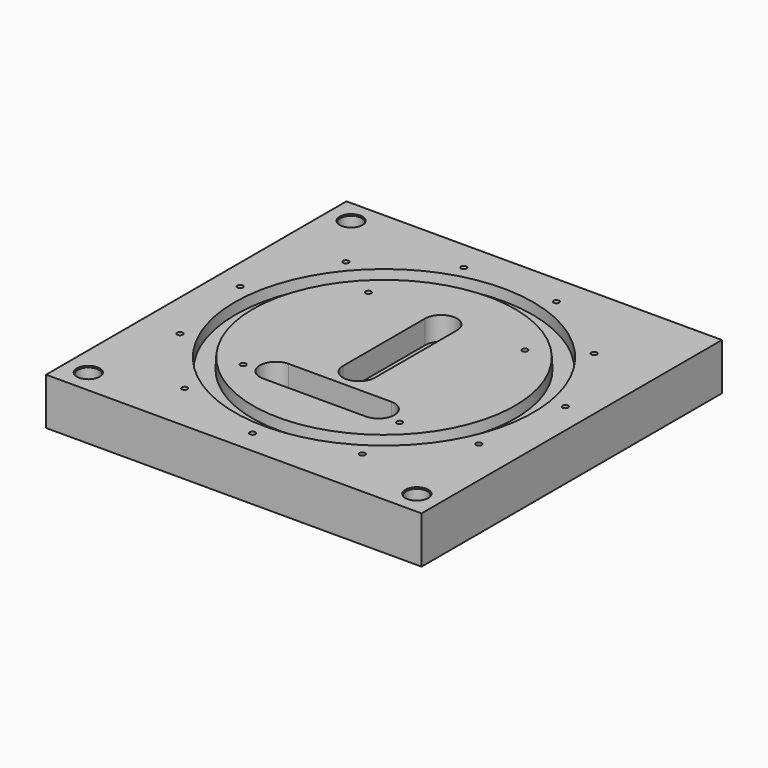
from build123d import *

# Parameters (mm, degrees)
F0_W      = 152.4
F0_H      = 152.4
F1_DEPTH  = 19.05
F2_R      = 4.3815
F3_DEPTH  = 19.05
F4_R      = 4.6355
F5_DEPTH  = 0.508
F6_R      = 1.1303
F8_DEPTH  = 6.35
F9_DEPTH  = 9.525
F10_R     = 1.1303
F11_DEPTH = 19.05
F12_R     = 4.7625
F13_DEPTH = 3.175
F14_R     = 1.1303
F15_DEPTH = 9.525


with BuildPart() as f1:
    # F0 (on Top) → F1 (new body)
    with BuildSketch(Plane.XY):
        Rectangle(F0_W, F0_H)
    extrude(amount=F1_DEPTH)

    # F2 (on face) → F3 (cut, through all)
    with BuildSketch(Plane.XY.offset(19.05)):
        with Locations((-66.675, 66.675)):
            Circle(F2_R)
        with Locations((-66.675, -66.675)):
            Circle(F2_R)
        with Locations((66.675, -66.675)):
            Circle(F2_R)
    extrude(amount=-F3_DEPTH, mode=Mode.SUBTRACT)

    # F4 (on face) → F5 (cut)
    with BuildSketch(Plane.XY.offset(19.05)):
        with Locations((-66.675, 66.675)):
            Circle(F4_R)
        with Locations((-66.675, -66.675)):
            Circle(F4_R)
        with Locations((66.675, -66.675)):
            Circle(F4_R)
    extrude(amount=-F5_DEPTH, mode=Mode.SUBTRACT)

    # F6 (on face) → F8 (cut)
    with BuildSketch(Plane.XY.offset(19.05)):
        with Locations((-31.75, 31.75)):
            Circle(F6_R)
        with Locations((31.75, 31.75)):
            Circle(F6_R)
        with Locations((31.75, -31.75)):
            Circle(F6_R)
        with Locations((-31.75, -31.75)):
            Circle(F6_R)
    extrude(amount=-F8_DEPTH, mode=Mode.SUBTRACT)

    # F7 (on face) → F9 (cut)
    with BuildSketch(Plane.XY.offset(19.05)):
        with BuildLine():
            ThreePointArc((20.828, -35.306), (14.351, -28.829), (20.828, -22.352))
            Line((20.828, -22.352), (-20.828, -22.352))
            ThreePointArc((-20.828, -22.352), (-16.2480693783, -24.2490693783), (-14.351, -28.829))
            ThreePointArc((-14.351, -28.829), (-16.2480693783, -33.4089306217), (-20.828, -35.306))
            Line((-20.828, -35.306), (20.828, -35.306))
        make_face()
        with BuildLine():
            ThreePointArc((27.305, -28.829), (25.4079306217, -24.2490693783), (20.828, -22.352))
            Line((20.828, -22.352), (20.828, -35.306))
            ThreePointArc((20.828, -35.306), (25.4079306217, -33.4089306217), (27.305, -28.829))
        make_face()
        with BuildLine():
            Line((20.828, -35.306), (20.828, -22.352))
            ThreePointArc((20.828, -22.352), (14.351, -28.829), (20.828, -35.306))
        make_face()
        with BuildLine():
            ThreePointArc((-14.351, -28.829), (-16.2480693783, -24.2490693783), (-20.828, -22.352))
            Line((-20.828, -22.352), (-20.828, -35.306))
            ThreePointArc((-20.828, -35.306), (-16.2480693783, -33.4089306217), (-14.351, -28.829))
        make_face()
        with BuildLine():
            Line((-20.828, -35.306), (-20.828, -22.352))
            ThreePointArc((-20.828, -22.352), (-27.305, -28.829), (-20.828, -35.306))
        make_face()
        with BuildLine():
            ThreePointArc((-6.477, -12.7), (0, -19.177), (6.477, -12.7))
            Line((6.477, -12.7), (-6.477, -12.7))
        make_face()
        with BuildLine():
            ThreePointArc((-6.477, -12.7), (0, -6.223), (6.477, -12.7))
            Line((6.477, -12.7), (6.477, 28.956))
            ThreePointArc((6.477, 28.956), (0, 22.479), (-6.477, 28.956))
            Line((-6.477, 28.956), (-6.477, -12.7))
        make_face()
        with BuildLine():
            Line((-6.477, -12.7), (6.477, -12.7))
            ThreePointArc((6.477, -12.7), (0, -6.223), (-6.477, -12.7))
        make_face()
        with BuildLine():
            ThreePointArc((-6.477, 28.956), (0, 22.479), (6.477, 28.956))
            Line((6.477, 28.956), (-6.477, 28.956))
        make_face()
        with BuildLine():
            Line((-6.477, 28.956), (6.477, 28.956))
            ThreePointArc((6.477, 28.956), (0, 35.433), (-6.477, 28.956))
        make_face()
    extrude(amount=-F9_DEPTH, mode=Mode.SUBTRACT)

    # F10 (on face) → F11 (cut, through all)
    with BuildSketch(Plane.XY.offset(19.05)):
        with Locations((0, -4.572)):
            Circle(F10_R)
        with Locations((0, 20.828)):
            Circle(F10_R)
        with Locations((-12.7, -28.829)):
            Circle(F10_R)
        with Locations((12.7, -28.829)):
            Circle(F10_R)
    extrude(amount=-F11_DEPTH, mode=Mode.SUBTRACT)

    # F12 (on face) → F13 (cut)
    with BuildSketch(Plane(origin=(0, 0, 0), x_dir=(1, 0, 0), z_dir=(0, 0, -1))):
        with Locations((-12.7, 28.829)):
            Circle(F12_R)
        with Locations((12.7, 28.829)):
            Circle(F12_R)
        with Locations((0, 4.572)):
            Circle(F12_R)
        with Locations((0, -20.828)):
            Circle(F12_R)
    extrude(amount=-F13_DEPTH, mode=Mode.SUBTRACT)

    # F14 (on face) → F15 (cut)
    with BuildSketch(Plane.XY.offset(19.05)):
        with Locations((0, -66.675)):
            Circle(F14_R)
        with Locations((36.0472265039, -56.0905793015)):
            Circle(F14_R)
        with Locations((60.6497132903, -27.6977959919)):
            Circle(F14_R)
        with Locations((65.9963446374, 9.4888418419)):
            Circle(F14_R)
        with Locations((50.3896028701, 43.6628394358)):
            Circle(F14_R)
        with Locations((18.7845182274, 63.9741940157)):
            Circle(F14_R)
        with Locations((-18.7845182274, 63.9741940157)):
            Circle(F14_R)
        with Locations((-50.3896028701, 43.6628394358)):
            Circle(F14_R)
        with Locations((-65.9963446374, 9.4888418419)):
            Circle(F14_R)
        with Locations((-60.6497132903, -27.6977959919)):
            Circle(F14_R)
        with Locations((-36.0472265039, -56.0905793015)):
            Circle(F14_R)
    extrude(amount=-F15_DEPTH, mode=Mode.SUBTRACT)

    # F17 (on Front) → F18 (revolve, cut)
    with BuildSketch(Plane.XZ):
        Polygon((-53.1876, 19.05), (-60.6104428426, 19.05), (-60.3788214213, 14.6304), (-53.4192214213, 14.6304), align=None)
    revolve(axis=Axis((0, 0, 42.1973057091), (0, 0, 1)), mode=Mode.SUBTRACT)


solid = f1.part
